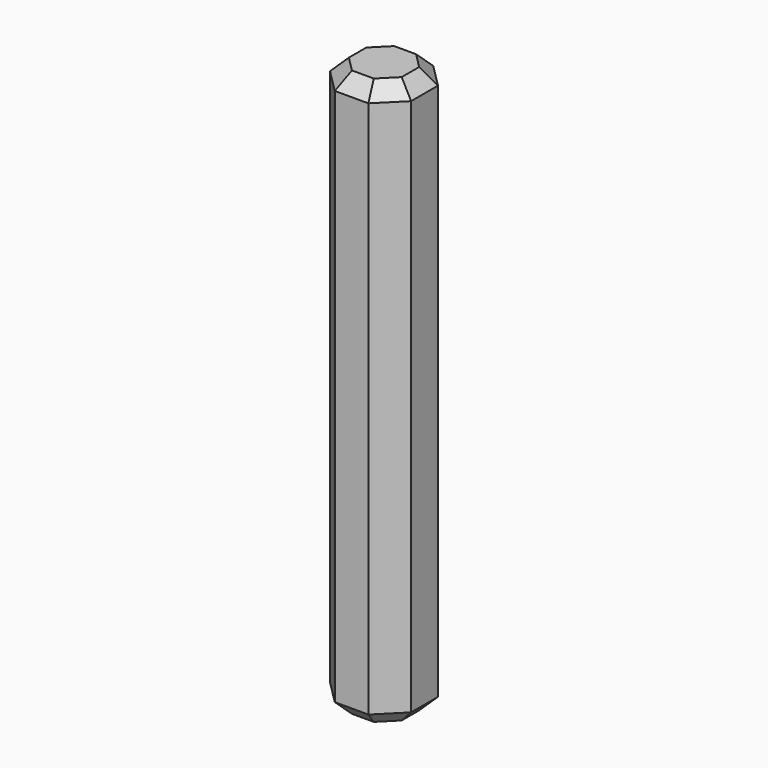
from build123d import *

# Parameters (mm, degrees)
F1_DEPTH = 40
F2_SIZE  = 1


with BuildPart() as f1:
    # F0 (on Top) → F1 (new body)
    with BuildSketch(Plane.XY):
        Polygon((2.864027, -1.186319), (2.864027, 1.186319), (1.186319, 2.864027), (-1.186319, 2.864027), (-2.864027, 1.186319), (-2.864027, -1.186319), (-1.186319, -2.864027), (1.186319, -2.864027), align=None)
    extrude(amount=F1_DEPTH)

    # F2
    f2_edges = [f1.edges().sort_by_distance(p)[0] for p in [
        (2.025173, -2.025173, 40),
        (2.864027, 0, 40),
        (2.025173, 2.025173, 40),
        (0, 2.864027, 40),
        (-2.025173, 2.025173, 40),
        (-2.864027, 0, 40),
        (-2.025173, -2.025173, 40),
        (0, -2.864027, 40),
        (2.025173, -2.025173, 0),
        (2.864027, 0, 0),
        (2.025173, 2.025173, 0),
        (0, 2.864027, 0),
        (-2.025173, 2.025173, 0),
        (-2.864027, 0, 0),
        (-2.025173, -2.025173, 0),
        (0, -2.864027, 0),
    ]]
    chamfer(f2_edges, length=F2_SIZE)


solid = f1.part
